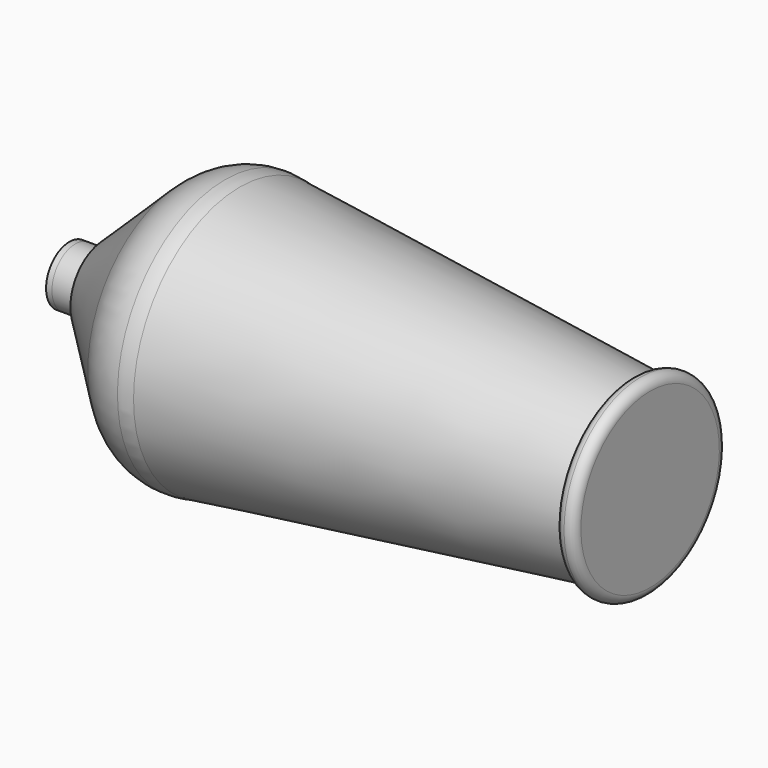
from build123d import *

# Parameters (mm, degrees)
F0_W = 3.0519851859
F0_H = 3.1160832868


with BuildPart() as f1:
    # F0 (on Front) → F1 (revolve)
    with BuildSketch(Plane.XZ):
        with Locations((26.6558756613, 1.5580416434)):
            Rectangle(F0_W, F0_H)
        Polygon((28.1818682542, 4.468358137), (28.1818682542, 3.1160832868), (28.1818682542, 0), (36.4585348536, 0), (36.4585348536, 12.4815679463), align=None)
        with BuildLine():
            ThreePointArc((41.1363107719, 14.375), (38.6130850347, 13.8836955193), (36.4585348536, 12.4815679463))
            Line((36.4585348536, 12.4815679463), (36.4585348536, 0))
            Line((36.4585348536, 0), (41.1363107719, 0))
            Line((41.1363107719, 0), (41.1363107719, 14.375))
        make_face()
        with BuildLine():
            ThreePointArc((42.7045226152, 14.1895976732), (41.9258774898, 14.3284885773), (41.1363107719, 14.375))
            Line((41.1363107719, 14.375), (41.1363107719, 0))
            Line((41.1363107719, 0), (42.7045226152, 0))
            Line((42.7045226152, 0), (42.7045226152, 14.1895976732))
        make_face()
        Polygon((84.5381251835, 9.2438071611), (42.7045226152, 14.1895976732), (42.7045226152, 0), (84.5381251835, 0), align=None)
        with BuildLine():
            ThreePointArc((85.5397771354, 10.2454593775), (84.8315022318, 9.9520821423), (84.5381251835, 9.2438071611))
            Line((84.5381251835, 9.2438071611), (84.5381251835, 0))
            Line((84.5381251835, 0), (85.5397771354, 0))
            Line((85.5397771354, 0), (85.5397771354, 10.2454593775))
        make_face()
        with BuildLine():
            ThreePointArc((86.5414296163, 9.24380769), (86.248052194, 9.9520825162), (85.5397771354, 10.2454593775))
            Line((85.5397771354, 10.2454593775), (85.5397771354, 0))
            Line((85.5397771354, 0), (86.5414296163, 0))
            Line((86.5414296163, 0), (86.5414296163, 3.1160832868))
            Line((86.5414296163, 3.1160832868), (86.5414296163, 9.24380769))
        make_face()
    revolve(axis=Axis((43.2707148081, 0, 0), (1, 0, 0)))


with BuildPart() as f1b:
    # F0 (on Front) → F1, piece 2 (revolve)
    with BuildSketch(Plane.XZ):
        with BuildLine():
            Line((25.1298830684, 3.1160832868), (24.5017842785, 3.1160832868))
            ThreePointArc((24.5017842785, 3.1160832868), (24.8158336734, 3.1058820628), (25.1298830684, 3.1160832868))
        make_face()
    revolve(axis=Axis((43.2707148081, 0, 0), (1, 0, 0)))


solid = Compound([f1.part, f1b.part])
